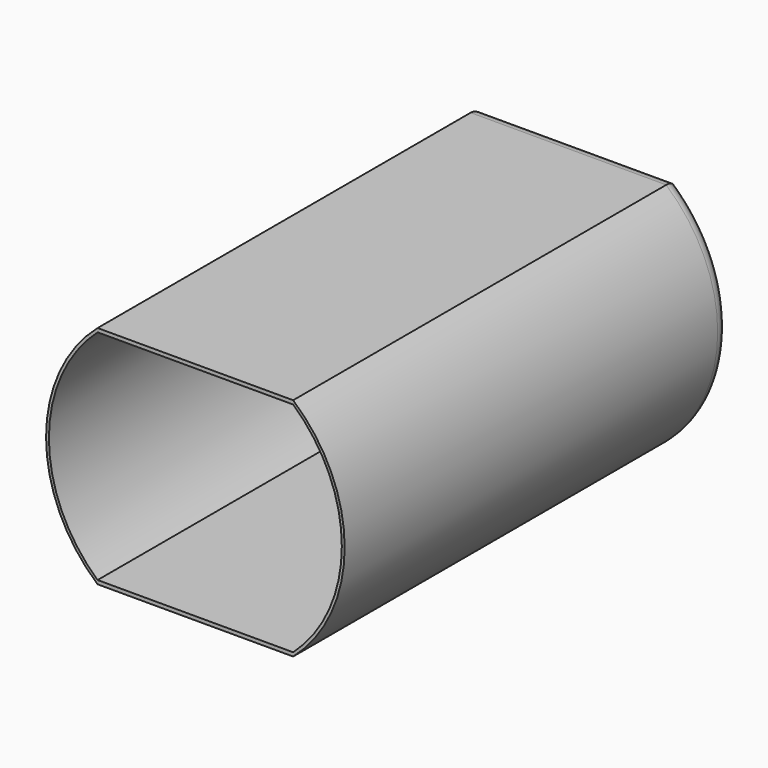
from build123d import *

# Parameters (mm, degrees)
SKETCH007_AS_DRAWN_R                 = 1
EXTRUDE006_DEPTH                     = 1
EXTRUDE006_ONTO_SKETCH007_ROLL_ANGLE = 90
SKETCH005_AS_DRAWN_R                 = 2
EXTRUDE005_DEPTH                     = 1
EXTRUDE005_ONTO_SKETCH005_ROLL_ANGLE = 90
EXTRUDE001_DEPTH                     = 31
EXTRUDE001_ONTO_SKETCH002_ROLL_ANGLE = 90
CHAMFER_SIZE                         = 1
EXTRUDE_DEPTH                        = 32
EXTRUDE_ONTO_SKETCH_ROLL_ANGLE       = 90
FILLET_R                             = 1
SKETCH004_AS_DRAWN_R                 = 2
EXTRUDE004_DEPTH                     = 2
EXTRUDE004_ONTO_SKETCH004_ROLL_ANGLE = 90
SKETCH003_AS_DRAWN_R                 = 3
EXTRUDE003_DEPTH                     = 2
EXTRUDE003_ONTO_SKETCH003_ROLL_ANGLE = 90
FILLET001_R                          = 0.5


with BuildPart() as extrude006:
    # Sketch007 as drawn → Extrude006 (new)
    with BuildSketch(Plane.XY):
        with Locations((4.5, 0)):
            Circle(SKETCH007_AS_DRAWN_R)
        with Locations((-7.5, 0)):
            Circle(SKETCH007_AS_DRAWN_R)
        with Locations((-1.5, 5)):
            Circle(SKETCH007_AS_DRAWN_R)
    extrude(amount=-EXTRUDE006_DEPTH)


with BuildPart() as extrude006_1:
    # Extrude006 onto Sketch007 roll: moved
    add(extrude006.part.rotate(Axis((0, 0, 0), (1, 0, 0)), EXTRUDE006_ONTO_SKETCH007_ROLL_ANGLE))


with BuildPart() as extrude006_2:
    # Extrude006 onto Sketch007 placement: moved
    add(extrude006_1.part.moved(Location((1.5, 31, 0))))


with BuildPart() as extrude005:
    # Sketch005 as drawn → Extrude005 (new)
    with BuildSketch(Plane.XY):
        Circle(SKETCH005_AS_DRAWN_R)
    extrude(amount=-EXTRUDE005_DEPTH)


with BuildPart() as extrude005_1:
    # Extrude005 onto Sketch005 roll: moved
    add(extrude005.part.rotate(Axis((0, 0, 0), (1, 0, 0)), EXTRUDE005_ONTO_SKETCH005_ROLL_ANGLE))


with BuildPart() as extrude005_2:
    # Extrude005 onto Sketch005 placement: moved
    add(extrude005_1.part.moved(Location((0, 31, 0))))


with BuildPart() as chamfer_body:
    # Sketch002 as drawn → Extrude001 (new)
    with BuildSketch(Plane.XY):
        with BuildLine():
            Line((-6.5, 7.250002), (6.499997, 7.250002))
            ThreePointArc((6.499997, -7.250002), (9.737171, 0), (6.499997, 7.250002))
            Line((-6.5, -7.250002), (6.499997, -7.250002))
            ThreePointArc((-6.5, 7.250002), (-9.737172, 0), (-6.5, -7.250002))
        make_face()
    extrude(amount=-EXTRUDE001_DEPTH)


with BuildPart() as chamfer_body_1:
    # Extrude001 onto Sketch002 roll: moved
    add(chamfer_body.part.rotate(Axis((0, 0, 0), (1, 0, 0)), EXTRUDE001_ONTO_SKETCH002_ROLL_ANGLE))


with BuildPart() as chamfer_body_2:
    # Extrude001 onto Sketch002 placement: moved
    add(chamfer_body_1.part)

    # Chamfer
    chamfer_edges = [chamfer_body_2.edges().sort_by_distance(p)[0] for p in [
        (-1e-06, 31, 7.250002),
        (9.737171, 31, 0),
        (-1e-06, 31, -7.250002),
        (-9.737172, 31, 0),
    ]]
    chamfer(chamfer_edges, length=CHAMFER_SIZE)


with BuildPart() as cut003:
    # Sketch as drawn → Extrude (new)
    with BuildSketch(Plane.XY):
        with BuildLine():
            Line((-6.5, 7.499998), (6.499997, 7.499998))
            ThreePointArc((6.499997, -7.499998), (9.924714, 0), (6.499997, 7.499998))
            Line((-6.5, -7.499998), (6.499997, -7.499998))
            ThreePointArc((-6.5, 7.499998), (-9.924715, 0), (-6.5, -7.499998))
        make_face()
    extrude(amount=-EXTRUDE_DEPTH)


with BuildPart() as cut003_1:
    # Extrude onto Sketch roll: moved
    add(cut003.part.rotate(Axis((0, 0, 0), (1, 0, 0)), EXTRUDE_ONTO_SKETCH_ROLL_ANGLE))


with BuildPart() as cut003_2:
    # Extrude onto Sketch placement: moved
    add(cut003_1.part)

    # Fillet
    fillet_edges = [cut003_2.edges().sort_by_distance(p)[0] for p in [
        (-1e-06, 32, 7.499998),
        (9.924714, 32, 0),
        (-1e-06, 32, -7.499998),
        (-9.924715, 32, 0),
    ]]
    fillet(fillet_edges, radius=FILLET_R)

    # Cut: cut Chamfer body
    add(chamfer_body_2.part, mode=Mode.SUBTRACT)

    # Cut002: cut Extrude005
    add(extrude005_2.part, mode=Mode.SUBTRACT)

    # Cut003: cut Extrude006
    add(extrude006_2.part, mode=Mode.SUBTRACT)


with BuildPart() as extrude004:
    # Sketch004 as drawn → Extrude004 (new)
    with BuildSketch(Plane.XY):
        Circle(SKETCH004_AS_DRAWN_R)
    extrude(amount=-EXTRUDE004_DEPTH)


with BuildPart() as extrude004_1:
    # Extrude004 onto Sketch004 roll: moved
    add(extrude004.part.rotate(Axis((0, 0, 0), (1, 0, 0)), EXTRUDE004_ONTO_SKETCH004_ROLL_ANGLE))


with BuildPart() as extrude004_2:
    # Extrude004 onto Sketch004 placement: moved
    add(extrude004_1.part.moved(Location((0, 34, 0))))


with BuildPart() as extrude004_3:
    # Extrude004 placement: moved
    add(extrude004_2.part.moved(Location((0, -2, 0))))


with BuildPart() as fusion:
    # Sketch003 as drawn → Extrude003 (new)
    with BuildSketch(Plane.XY):
        Circle(SKETCH003_AS_DRAWN_R)
    extrude(amount=-EXTRUDE003_DEPTH)


with BuildPart() as fusion_1:
    # Extrude003 onto Sketch003 roll: moved
    add(fusion.part.rotate(Axis((0, 0, 0), (1, 0, 0)), EXTRUDE003_ONTO_SKETCH003_ROLL_ANGLE))


with BuildPart() as fusion_2:
    # Extrude003 onto Sketch003 placement: moved
    add(fusion_1.part.moved(Location((0, 32, 0))))

    # Fillet001
    fillet001_edges = [fusion_2.edges().sort_by_distance(p)[0] for p in [
        (-3, 34, 0),
    ]]
    fillet(fillet001_edges, radius=FILLET001_R)

    # Cut001: cut Extrude004
    add(extrude004_3.part, mode=Mode.SUBTRACT)

    # Fusion: union Cut003
    add(cut003_2.part)


solid = fusion_2.part
